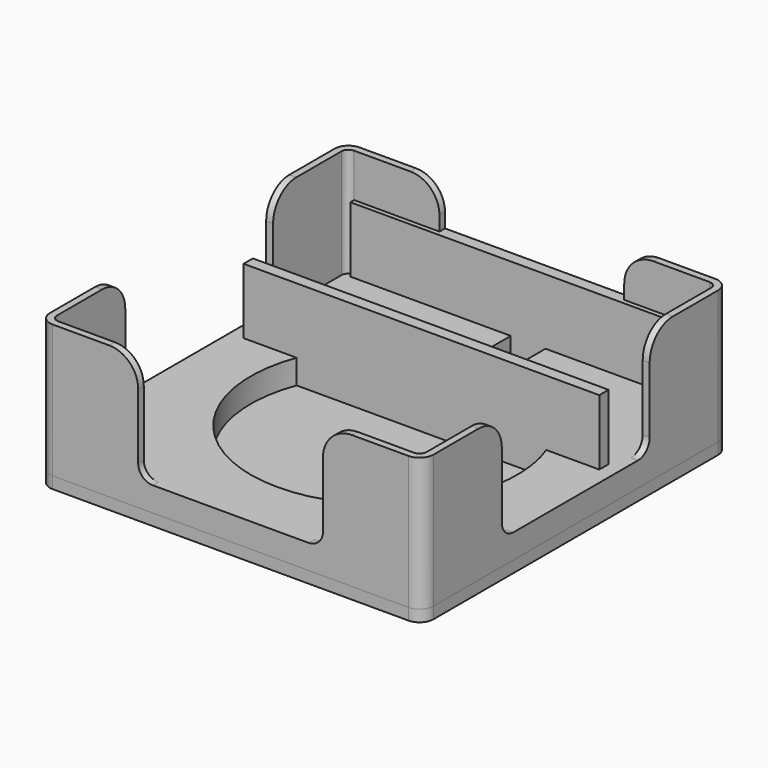
from build123d import *

# Parameters (mm, degrees)
PAD_DEPTH       = 50
SKETCH001_R     = 46
POCKET_DEPTH    = 47.601
SKETCH002_W     = 12
SKETCH002_H     = 66.15
POCKET001_DEPTH = 47.601
POCKET002_DEPTH = 37.601
SKETCH004_R     = 2
POCKET003_DEPTH = 5
SKETCH007_W     = 153
SKETCH007_H     = 63.75
POCKET004_DEPTH = 37.601
SKETCH008_W     = 63.75
SKETCH008_H     = 153
POCKET005_DEPTH = 37.601
FILLET_R        = 10
FILLET001_R     = 5
SKETCH005_R     = 2
PAD001_DEPTH    = 4
SKETCH006_W     = 122.7
SKETCH006_H     = 4
PAD002_DEPTH    = 35


with BuildPart() as box_holder:
    # Sketch → Pad (new body)
    with BuildSketch(Plane.XY):
        with BuildLine():
            ThreePointArc((-61.35, 66.15), (-64.744113, 64.744113), (-66.15, 61.35))
            Line((-66.15, -61.35), (-66.15, 61.35))
            ThreePointArc((-66.15, -61.35), (-64.744113, -64.744113), (-61.35, -66.15))
            Line((61.35, -66.15), (-61.35, -66.15))
            ThreePointArc((61.35, -66.15), (64.744113, -64.744113), (66.15, -61.35))
            Line((66.15, 61.35), (66.15, -61.35))
            ThreePointArc((66.15, 61.35), (64.744113, 64.744113), (61.35, 66.15))
            Line((-61.35, 66.15), (61.35, 66.15))
        make_face()
    extrude(amount=PAD_DEPTH)

    # Sketch001 → Pocket (cut, through all)
    with BuildSketch(Plane.XY.offset(2.4)):
        Circle(SKETCH001_R)
    extrude(amount=POCKET_DEPTH, mode=Mode.SUBTRACT)

    # Sketch002 → Pocket001 (cut, through all)
    with BuildSketch(Plane.XY.offset(2.4)):
        with Locations((0, 33.075)):
            Rectangle(SKETCH002_W, SKETCH002_H)
    extrude(amount=POCKET001_DEPTH, mode=Mode.SUBTRACT)

    # Sketch003 → Pocket002 (cut, through all)
    with BuildSketch(Plane.XY.offset(12.4)):
        with BuildLine():
            ThreePointArc((-61.35, 63.75), (-63.047056, 63.047056), (-63.75, 61.35))
            Line((-63.75, -61.35), (-63.75, 61.35))
            ThreePointArc((-63.75, -61.35), (-63.047056, -63.047056), (-61.35, -63.75))
            Line((61.35, -63.75), (-61.35, -63.75))
            ThreePointArc((61.35, -63.75), (63.047056, -63.047056), (63.75, -61.35))
            Line((63.75, 61.35), (63.75, -61.35))
            ThreePointArc((63.75, 61.35), (63.047056, 63.047056), (61.35, 63.75))
            Line((-61.35, 63.75), (61.35, 63.75))
        make_face()
    extrude(amount=POCKET002_DEPTH, mode=Mode.SUBTRACT)

    # Sketch004 → Pocket003 (cut)
    with BuildSketch(Plane.XY):
        with Locations((-50, 50)):
            Circle(SKETCH004_R)
        with Locations((50, 50)):
            Circle(SKETCH004_R)
        with Locations((50, -50)):
            Circle(SKETCH004_R)
        with Locations((-50, -50)):
            Circle(SKETCH004_R)
    extrude(amount=POCKET003_DEPTH, mode=Mode.SUBTRACT)

    # Sketch007 → Pocket004 (cut, through all)
    with BuildSketch(Plane.XY.offset(12.4)):
        Rectangle(SKETCH007_W, SKETCH007_H)
    extrude(amount=POCKET004_DEPTH, mode=Mode.SUBTRACT)

    # Sketch008 → Pocket005 (cut, through all)
    with BuildSketch(Plane.XY.offset(12.4)):
        Rectangle(SKETCH008_W, SKETCH008_H)
    extrude(amount=POCKET005_DEPTH, mode=Mode.SUBTRACT)

    # Fillet
    fillet_edges = [box_holder.edges().sort_by_distance(p)[0] for p in [
        (-64.95, -31.875, 50),
        (-64.95, 31.875, 50),
        (-31.875, -64.95, 50),
        (31.875, -64.95, 50),
        (64.95, -31.875, 50),
        (64.95, 31.875, 50),
        (31.875, 64.95, 50),
        (-31.875, 64.95, 50),
    ]]
    fillet(fillet_edges, radius=FILLET_R)

    # Fillet001
    fillet001_edges = [box_holder.edges().sort_by_distance(p)[0] for p in [
        (31.875, 64.95, 12.4),
        (64.95, 31.875, 12.4),
        (-31.875, 64.95, 12.4),
        (-64.95, -31.875, 12.4),
        (-64.95, 31.875, 12.4),
        (-31.875, -64.95, 12.4),
        (31.875, -64.95, 12.4),
        (64.95, -31.875, 12.4),
    ]]
    fillet(fillet001_edges, radius=FILLET001_R)


with BuildPart() as obj1:
    # Sketch005 → Pad001 (new body)
    with BuildSketch(Plane.XY):
        with BuildLine():
            ThreePointArc((-61.35, 66.15), (-64.744113, 64.744113), (-66.15, 61.35))
            Line((-66.15, -61.35), (-66.15, 61.35))
            ThreePointArc((-66.15, -61.35), (-64.744113, -64.744113), (-61.35, -66.15))
            Line((61.35, -66.15), (-61.35, -66.15))
            ThreePointArc((61.35, -66.15), (64.744113, -64.744113), (66.15, -61.35))
            Line((66.15, 61.35), (66.15, -61.35))
            ThreePointArc((66.15, 61.35), (64.744113, 64.744113), (61.35, 66.15))
            Line((-61.35, 66.15), (61.35, 66.15))
        make_face()
        with Locations((-50, 50)):
            Circle(SKETCH005_R, mode=Mode.SUBTRACT)
        with Locations((50, 50)):
            Circle(SKETCH005_R, mode=Mode.SUBTRACT)
        with Locations((-50, -50)):
            Circle(SKETCH005_R, mode=Mode.SUBTRACT)
        with Locations((50, -50)):
            Circle(SKETCH005_R, mode=Mode.SUBTRACT)
    extrude(amount=PAD001_DEPTH)

    # Sketch006 → Pad002 (join)
    with BuildSketch(Plane.XY):
        with Locations((0, 64.15)):
            Rectangle(SKETCH006_W, SKETCH006_H)
        with Locations((0, 18.15)):
            Rectangle(SKETCH006_W, SKETCH006_H)
    extrude(amount=PAD002_DEPTH)


solid = Compound([box_holder.part, obj1.part])
